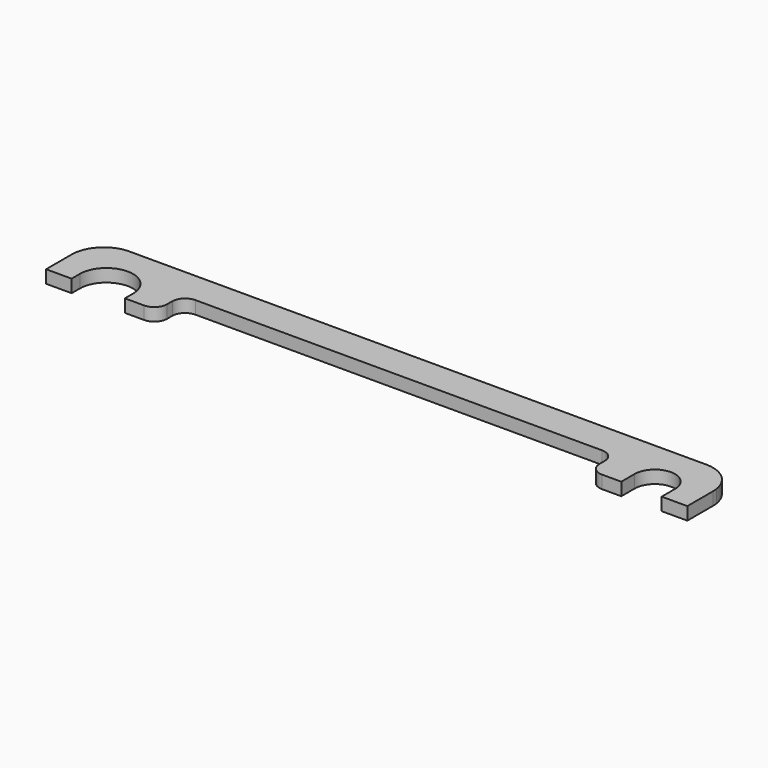
from build123d import *

# Parameters (mm, degrees)
F1_DEPTH = 2


with BuildPart() as f1:
    # F0 (on Top) → F1 (new body)
    with BuildSketch(Plane.XY):
        with BuildLine():
            ThreePointArc((49.94281, 0.754074), (48.258039, 3.792781), (45, 5))
            Line((45, 5), (-45, 5))
            ThreePointArc((-45, 5), (-48.258039, 3.792781), (-49.94281, 0.754074))
            ThreePointArc((-49.94281, 0.754074), (-49.985682, 0.37812), (-50, 0))
            Line((-50, 0), (-50, -5))
            Line((-50, -5), (-46.019139, -5))
            Line((-46.019139, -5), (-46.019139, -3.395926))
            ThreePointArc((-46.019139, -3.395926), (-41.869139, 0.754074), (-37.719139, -3.395926))
            Line((-37.719139, -3.395926), (-37.719139, -5))
            Line((-37.719139, -5), (-34.719139, -5))
            ThreePointArc((-34.719139, -5), (-33.304926, -4.414214), (-32.719139, -3))
            Line((-32.719139, -3), (-32.719139, -2))
            ThreePointArc((-32.719139, -2), (-32.133353, -0.585786), (-30.719139, 0))
            Line((-30.719139, 0), (32.700289, 0))
            ThreePointArc((32.700289, 0), (34.114502, -0.585786), (34.700289, -2))
            Line((34.700289, -2), (34.700289, -3))
            ThreePointArc((34.700289, -3), (35.286075, -4.414214), (36.700289, -5))
            Line((36.700289, -5), (39.700289, -5))
            Line((39.700289, -5), (39.700289, -2.395926))
            ThreePointArc((39.700289, -2.395926), (42.850289, 0.754074), (46.000289, -2.395926))
            Line((46.000289, -2.395926), (46.000289, -5))
            Line((46.000289, -5), (50, -5))
            Line((50, -5), (50, 0))
            ThreePointArc((50, 0), (49.985682, 0.37812), (49.94281, 0.754074))
        make_face()
    extrude(amount=F1_DEPTH)


solid = f1.part
